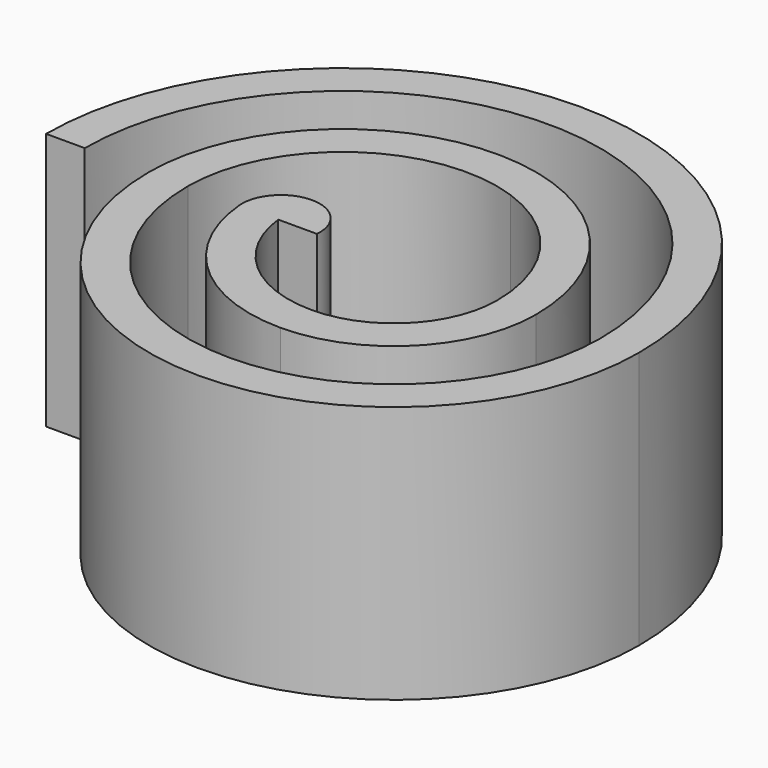
from build123d import *

# Parameters (mm, degrees)
F1_DEPTH = 10


with BuildPart() as f1:
    # F0 (on Top) → F1 (new body)
    with BuildSketch(Plane.XY):
        with BuildLine():
            ThreePointArc((0, 5.656854), (2.898979, 3.464102), (4, 0))
            ThreePointArc((4, 0), (2.828427, -2.828427), (0, -4))
            ThreePointArc((0, -4), (-3.007566, -2.855084), (-4.492418, 0))
            Line((-4.492418, 0), (-2.992418, 0))
            ThreePointArc((-2.992418, 0), (-4.496209, 1.640499), (-6, 0))
            ThreePointArc((-6, 0), (-4.069705, -3.916951), (0, -5.5))
            ThreePointArc((0, -5.5), (3.889087, -3.889087), (5.5, 0))
            ThreePointArc((5.5, 0), (4.123724, 4.330127), (0.5, 7.071068))
            ThreePointArc((0.5, 7.071068), (-6.330127, 6.123724), (-9.5, 0))
            ThreePointArc((-9.5, 0), (0, -9.5), (9.5, 0))
            ThreePointArc((9.5, 0), (-2, 11.5), (-13.5, 0))
            Line((-13.5, 0), (-12, 0))
            ThreePointArc((-12, 0), (-2, 10), (8, 0))
            ThreePointArc((8, 0), (0, -8), (-8, 0))
            ThreePointArc((-8, 0), (-5.464102, 4.898979), (0, 5.656854))
        make_face()
    extrude(amount=F1_DEPTH)


solid = f1.part
